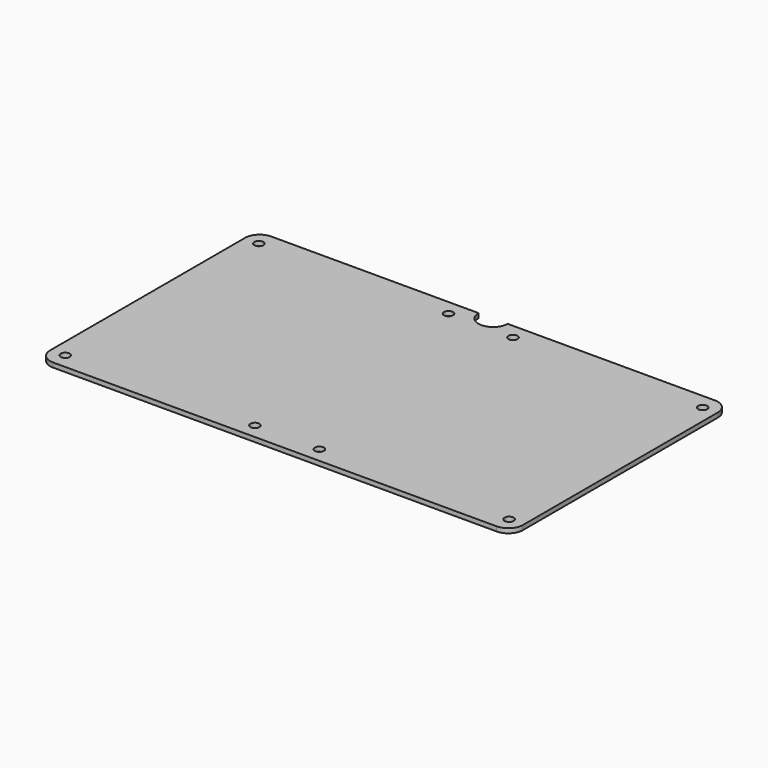
from build123d import *

# Parameters (mm, degrees)
F1_DEPTH = 1.5875
F2_D     = 3.175


with BuildPart() as f1:
    # F0 (on Top) → F1 (new body)
    with BuildSketch(Plane.XY):
        with BuildLine():
            ThreePointArc((0, 5.08), (1.487898, 1.487898), (5.08, 0))
            Line((5.08, 0), (160.02, 0))
            ThreePointArc((160.02, 0), (163.612102, 1.487898), (165.1, 5.08))
            Line((165.1, 5.08), (165.1, 90.17))
            ThreePointArc((165.1, 90.17), (163.612102, 93.762102), (160.02, 95.25))
            Line((160.02, 95.25), (87.63, 95.25))
            ThreePointArc((87.63, 95.25), (82.55, 90.17), (77.47, 95.25))
            Line((77.47, 95.25), (5.08, 95.25))
            ThreePointArc((5.08, 95.25), (1.487898, 93.762102), (0, 90.17))
            Line((0, 90.17), (0, 5.08))
        make_face()
    extrude(amount=-F1_DEPTH)

    # F2 (through all)
    with Locations(Plane.XY):
        with Locations((5.0546, 5.3594), (71.2978, 5.3594), (93.8022, 5.3594), (160.0454, 5.3594), (160.0454, 89.8652), (93.8022, 89.8652), (71.2978, 89.8652), (5.0546, 89.8652)):
            Hole(F2_D / 2)


solid = f1.part
